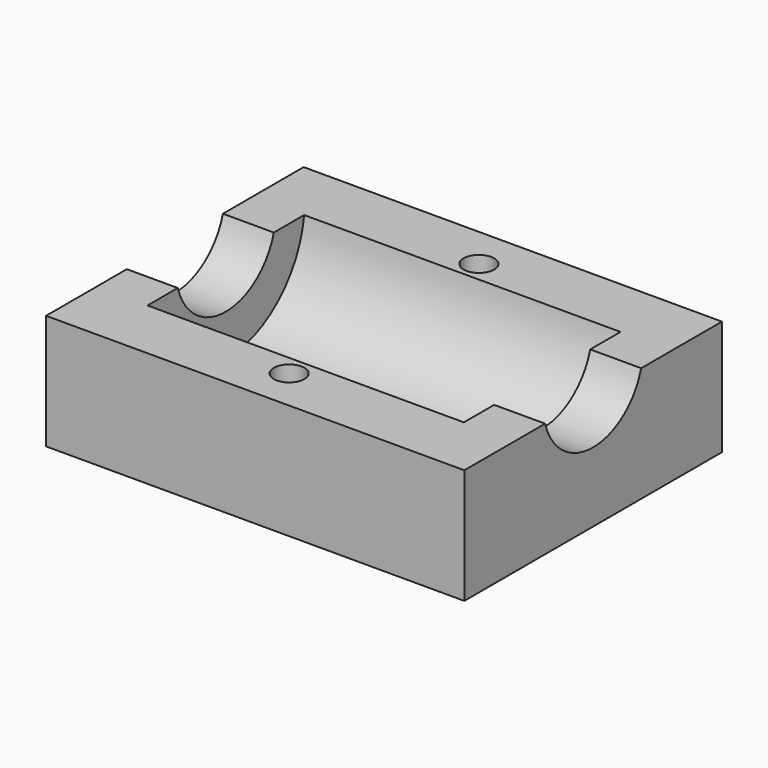
from build123d import *

# Parameters (mm, degrees)
F0_W      = 24.892
F0_H      = 8.89
F1_DEPTH  = 3.937
F3_DEPTH  = 24.4602
F4_W      = 24.892
F4_H      = 8.89
F5_DEPTH  = 3.937
F7_DEPTH  = 32.3352
F8_R      = 1.1811
F9_DEPTH  = 8.891
F11_DEPTH = 3.302


with BuildPart() as f1:
    # F0 (on Right) → F1 (new body)
    with BuildSketch(Plane.YZ):
        Rectangle(F0_W, F0_H)
    extrude(amount=F1_DEPTH)

    # F2 (on face) → F3 (join)
    with BuildSketch(Plane.YZ.offset(3.937)):
        with BuildLine():
            Line((-7.5709045061, 4.445), (-12.446, 4.445))
            Line((-12.446, 4.445), (-12.446, -4.445))
            Line((-12.446, -4.445), (12.446, -4.445))
            Line((12.446, -4.445), (12.446, 4.445))
            Line((12.446, 4.445), (7.5709045061, 4.445))
            ThreePointArc((7.5709045061, 4.445), (0, -2.3114), (-7.5709045061, 4.445))
        make_face()
    extrude(amount=F3_DEPTH)

    # F4 (on face) → F5 (join)
    with BuildSketch(Plane.YZ.offset(28.3972)):
        Rectangle(F4_W, F4_H)
    extrude(amount=F5_DEPTH)

    # F6 (on face) → F7 (cut, through all)
    with BuildSketch(Plane.YZ.offset(32.3342)):
        with BuildLine():
            Line((4.6417414146, 4.445), (-4.6417414146, 4.445))
            ThreePointArc((-4.6417414146, 4.445), (0, 0.9398), (4.6417414146, 4.445))
        make_face()
    extrude(amount=-F7_DEPTH, mode=Mode.SUBTRACT)

    # F8 (on face) → F9 (cut, through all)
    with BuildSketch(Plane.XY.offset(4.445)):
        with Locations((16.1671, -9.1694)):
            Circle(F8_R)
        with Locations((16.1671, 9.1694)):
            Circle(F8_R)
    extrude(amount=-F9_DEPTH, mode=Mode.SUBTRACT)

    # F10 (on face) → F11 (cut)
    with BuildSketch(Plane(origin=(0, 0, -4.445), x_dir=(1, 0, 0), z_dir=(0, 0, -1))):
        Polygon((14.7592891036, -6.731), (13.3514782072, -9.1694), (14.7592891036, -11.6078), (17.5749108964, -11.6078), (18.9827217928, -9.1694), (17.5749108964, -6.731), align=None)
        Polygon((13.3514782072, 9.1694), (14.7592891036, 6.731), (17.5749108964, 6.731), (18.9827217928, 9.1694), (17.5749108964, 11.6078), (14.7592891036, 11.6078), align=None)
    extrude(amount=-F11_DEPTH, mode=Mode.SUBTRACT)


solid = f1.part
